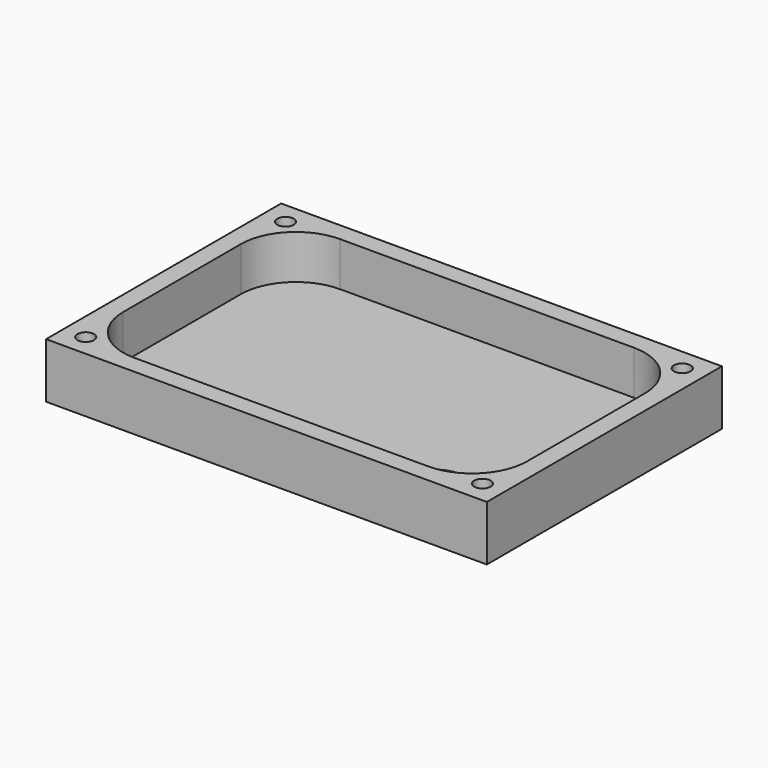
from build123d import *

# Parameters (mm, degrees)
BOX_W            = 120
BOX_H            = 80
BOX_DEPTH        = 15
POCKET_DEPTH     = 12
HOLE_D           = 4.5
HOLE_DEPTH       = 25
HOLE_CBORE_D     = 8
HOLE_CBORE_DEPTH = 4.4
SKETCH005_R      = 7.5
SKETCH005_W      = 13.5
SKETCH005_H      = 14.5
POCKET001_DEPTH  = 5


with BuildPart() as part:
    # Box → Box (join)
    with BuildSketch(Plane(origin=(-52.5, -46, 25), x_dir=(1, 0, 0), z_dir=(0, 0, 1))):
        with Locations((60, 40)):
            Rectangle(BOX_W, BOX_H)
    extrude(amount=BOX_DEPTH)

    # Sketch003 (on Face6 of Box) → Pocket (cut)
    with BuildSketch(Plane(origin=(-52.5, -46, 40), x_dir=(1, 0, 0), z_dir=(0, 0, 1))):
        with BuildLine():
            ThreePointArc((20, 75), (9.3933982822, 70.6066017178), (5, 60))
            Line((5, 20), (5, 60))
            ThreePointArc((5, 20), (9.3933982822, 9.3933982822), (20, 5))
            Line((100, 5), (20, 5))
            ThreePointArc((100, 5), (110.6066017178, 9.3933982822), (115, 20))
            Line((115, 60), (115, 20))
            ThreePointArc((115, 60), (110.6066017178, 70.6066017178), (100, 75))
            Line((20, 75), (100, 75))
        make_face()
    extrude(amount=-POCKET_DEPTH, mode=Mode.SUBTRACT)

    # Hole
    with Locations(Plane(origin=(-52.5, -46, 25), x_dir=(1, 0, 0), z_dir=(0, 0, -1))):
        with Locations((6, -6), (114, -6), (6, -74), (114, -74)):
            CounterBoreHole(HOLE_D / 2, HOLE_CBORE_D / 2, HOLE_CBORE_DEPTH, depth=HOLE_DEPTH)

    # Sketch005 (on Face5 of Hole) → Pocket001 (cut)
    with BuildSketch(Plane(origin=(-52.5, -46, 25), x_dir=(1, 0, 0), z_dir=(0, 0, -1))):
        with Locations((92.499962, -16.998899)):
            Circle(SKETCH005_R)
        with Locations((28.5389866751, -15.4398246124)):
            Rectangle(SKETCH005_W, SKETCH005_H)
    extrude(amount=-POCKET001_DEPTH, mode=Mode.SUBTRACT)


solid = part.part
